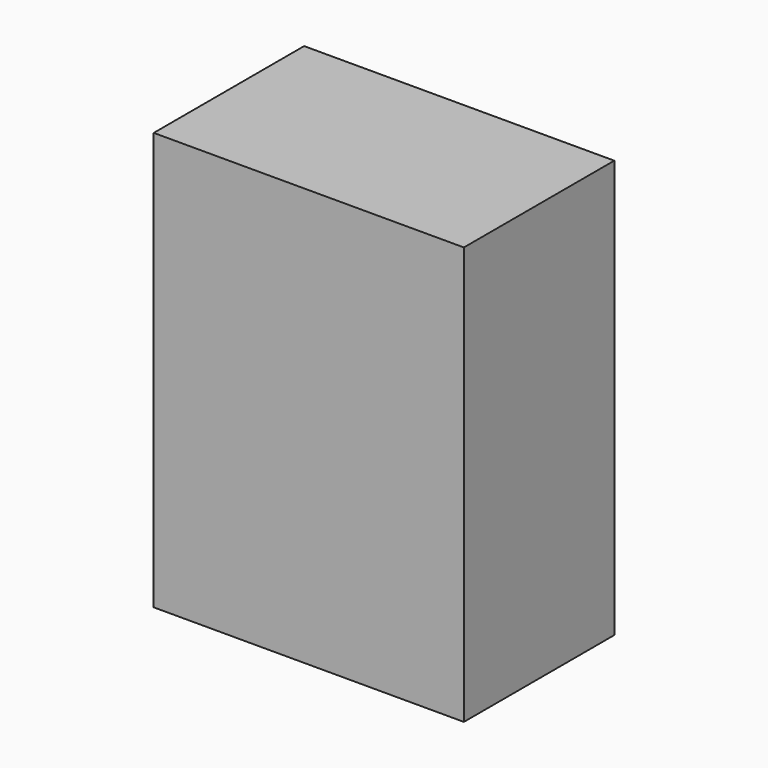
from build123d import *

# Parameters (mm, degrees)
F0_W     = 1066.8
F0_H     = 914.4
F1_DEPTH = 1778
F2_DEPTH = 441.96
F3_DEPTH = 355.6
F4_DEPTH = 609.6


with BuildPart() as f1:
    # F0 (on Top) → F1 (new body)
    with BuildSketch(Plane.XY):
        with Locations((533.4, 457.2)):
            Rectangle(F0_W, F0_H)
    extrude(amount=F1_DEPTH)

    # F2 (add): a face of the model
    f2_faces = [f1.faces().sort_by_distance(p)[0] for p in [
        (0, 457.2, 889),
    ]]
    extrude(f2_faces, amount=F2_DEPTH)

    # F3 (cut): a face of the model
    f3_faces = [f1.faces().sort_by_distance(p)[0] for p in [
        (312.42, 457.2, 1778),
    ]]
    extrude(f3_faces, amount=-F3_DEPTH, mode=Mode.SUBTRACT)

    # F4 (add): a face of the model
    f4_faces = [f1.faces().sort_by_distance(p)[0] for p in [
        (312.42, 457.2, 1422.4),
    ]]
    extrude(f4_faces, amount=F4_DEPTH)


solid = f1.part
